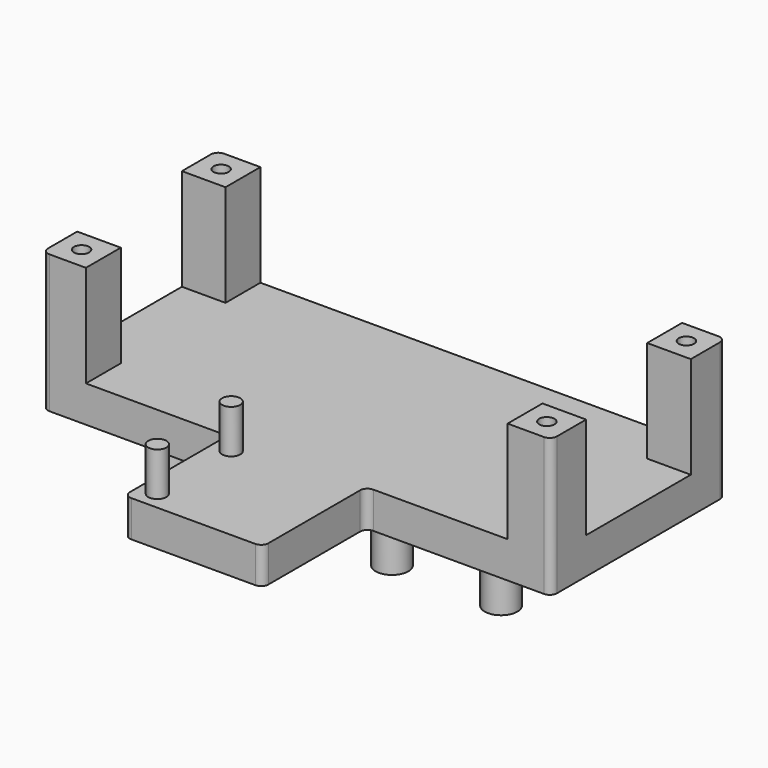
from build123d import *

# Parameters (mm, degrees)
SKETCH003_W      = 19.05
SKETCH003_H      = 5
EXTRUDE004_DEPTH = 17.78
SKETCH002_R      = 2.25
EXTRUDE003_DEPTH = 8
SKETCH001_R      = 1.05
EXTRUDE001_DEPTH = 10
SKETCH_W         = 6
SKETCH_H         = 6
EXTRUDE_DEPTH    = 14
BOX_W            = 70
BOX_H            = 30
BOX_DEPTH        = 5
SKETCH004_R      = 1.25
EXTRUDE006_DEPTH = 6
FILLET_R         = 1
FILLET001_R      = 1
FILLET002_R      = 1
FILLET003_R      = 1
FILLET004_R      = 1
FILLET005_R      = 1
FILLET006_R      = 1


with BuildPart() as extrude004:
    # Sketch003 (on Face2 of Fusion001) → Extrude004 (new body)
    with BuildSketch(Plane.XZ):
        with Locations((35, 2.5)):
            Rectangle(SKETCH003_W, SKETCH003_H)
    extrude(amount=EXTRUDE004_DEPTH)


with BuildPart() as extrude003:
    # Sketch002 (on Face7 of Fusion) → Extrude003 (new body)
    with BuildSketch(Plane(origin=(0, 0, 0), x_dir=(1, 0, 0), z_dir=(0, 0, -1))):
        with Locations((42.5, -7)):
            Circle(SKETCH002_R)
        with Locations((27.5, -7)):
            Circle(SKETCH002_R)
        with Locations((57.5, -7)):
            Circle(SKETCH002_R)
        with Locations((12.5, -7)):
            Circle(SKETCH002_R)
        with Locations((42.5, -22)):
            Circle(SKETCH002_R)
        with Locations((57.5, -22)):
            Circle(SKETCH002_R)
        with Locations((12.5, -22)):
            Circle(SKETCH002_R)
        with Locations((27.5, -22)):
            Circle(SKETCH002_R)
    extrude(amount=EXTRUDE003_DEPTH)


with BuildPart() as extrude001:
    # Sketch001 (on Face24 of Extrude) → Extrude001 (new body)
    with BuildSketch(Plane.XY.offset(19)):
        with Locations((3, 27)):
            Circle(SKETCH001_R)
        with Locations((3, 3)):
            Circle(SKETCH001_R)
        with Locations((67, 3)):
            Circle(SKETCH001_R)
        with Locations((67, 27)):
            Circle(SKETCH001_R)
    extrude(amount=-EXTRUDE001_DEPTH)


with BuildPart() as cut:
    # Sketch (on Face6 of Box) → Extrude (new body)
    with BuildSketch(Plane.XY.offset(5)):
        with Locations((3, 27)):
            Rectangle(SKETCH_W, SKETCH_H)
        with Locations((3, 3)):
            Rectangle(SKETCH_W, SKETCH_H)
        with Locations((67, 3)):
            Rectangle(SKETCH_W, SKETCH_H)
        with Locations((67, 27)):
            Rectangle(SKETCH_W, SKETCH_H)
    extrude(amount=EXTRUDE_DEPTH)

    # Cut: cut Extrude001
    add(extrude001.part, mode=Mode.SUBTRACT)


with BuildPart() as fusion001:
    # Box → Box (new body)
    with BuildSketch(Plane.XY):
        with Locations((35, 15)):
            Rectangle(BOX_W, BOX_H)
    extrude(amount=BOX_DEPTH)

    # Fusion: union Cut
    add(cut.part)

    # Fusion001: union Extrude003
    add(extrude003.part)


with BuildPart() as speaker_plate:
    # Sketch004 (on Face4 of Extrude004) → Extrude006 (new body)
    with BuildSketch(Plane.XY.offset(5)):
        with Locations((28.015, -2.54)):
            Circle(SKETCH004_R)
        with Locations((28.015, -15.24)):
            Circle(SKETCH004_R)
    extrude(amount=EXTRUDE006_DEPTH)

    # Fusion002: union Extrude004, Fusion001
    add(extrude004.part)
    add(fusion001.part)

    # Fillet
    fillet_edges = [speaker_plate.edges().sort_by_distance(p)[0] for p in [
        (0, 0, 2.5),
        (0, 0, 12),
    ]]
    fillet(fillet_edges, radius=FILLET_R)

    # Fillet001
    fillet001_edges = [speaker_plate.edges().sort_by_distance(p)[0] for p in [
        (25.475, 0, 2.5),
        (25.475, -17.78, 2.5),
    ]]
    fillet(fillet001_edges, radius=FILLET001_R)

    # Fillet002
    fillet002_edges = [speaker_plate.edges().sort_by_distance(p)[0] for p in [
        (44.525, -17.78, 2.5),
    ]]
    fillet(fillet002_edges, radius=FILLET002_R)

    # Fillet003
    fillet003_edges = [speaker_plate.edges().sort_by_distance(p)[0] for p in [
        (44.525, 0, 2.5),
    ]]
    fillet(fillet003_edges, radius=FILLET003_R)

    # Fillet004
    fillet004_edges = [speaker_plate.edges().sort_by_distance(p)[0] for p in [
        (70, 0, 2.5),
        (70, 0, 12),
    ]]
    fillet(fillet004_edges, radius=FILLET004_R)

    # Fillet005
    fillet005_edges = [speaker_plate.edges().sort_by_distance(p)[0] for p in [
        (70, 30, 2.5),
        (70, 30, 12),
    ]]
    fillet(fillet005_edges, radius=FILLET005_R)

    # Fillet006
    fillet006_edges = [speaker_plate.edges().sort_by_distance(p)[0] for p in [
        (0, 30, 2.5),
        (0, 30, 12),
    ]]
    fillet(fillet006_edges, radius=FILLET006_R)


solid = speaker_plate.part
